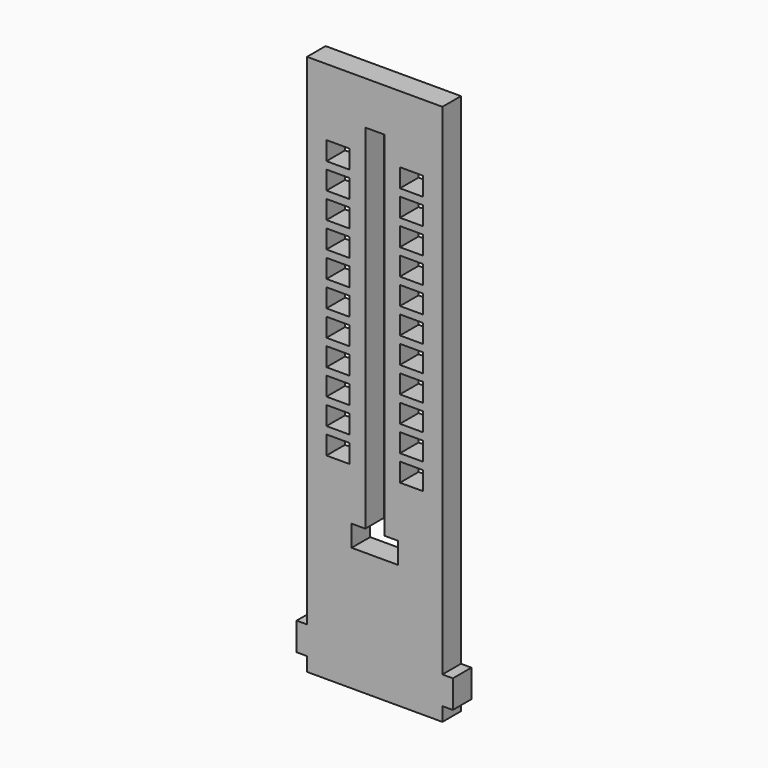
from build123d import *

# Parameters (mm, degrees)
F0_W     = 350
F0_H     = 1250
F0_W_2   = 60
F0_H_2   = 48
F0_W_3   = 60.0317394733
F0_W_4   = 27
F0_H_3   = 72
F1_DEPTH = 60


with BuildPart() as f1:
    # F0 (on Front) → F1 (new body)
    with BuildSketch(Plane.XZ):
        with Locations((-0.2704625484, 126.1477753774)):
            Rectangle(F0_W, F0_H)
        with Locations((-95, -116)):
            Rectangle(F0_W_2, F0_H_2, mode=Mode.SUBTRACT)
        with Locations((-95, -49)):
            Rectangle(F0_W_2, F0_H_2, mode=Mode.SUBTRACT)
        with Locations((-95.0158697367, 18)):
            Rectangle(F0_W_3, F0_H_2, mode=Mode.SUBTRACT)
        with Locations((95, -116)):
            Rectangle(F0_W_2, F0_H_2, mode=Mode.SUBTRACT)
        with Locations((95, -49)):
            Rectangle(F0_W_2, F0_H_2, mode=Mode.SUBTRACT)
        with Locations((95.0158697367, 18)):
            Rectangle(F0_W_3, F0_H_2, mode=Mode.SUBTRACT)
        with Locations((-95.0158697367, 85)):
            Rectangle(F0_W_3, F0_H_2, mode=Mode.SUBTRACT)
        with Locations((-95.0158697367, 152)):
            Rectangle(F0_W_3, F0_H_2, mode=Mode.SUBTRACT)
        with Locations((-95.0158697367, 219)):
            Rectangle(F0_W_3, F0_H_2, mode=Mode.SUBTRACT)
        with Locations((-95.0158697367, 286)):
            Rectangle(F0_W_3, F0_H_2, mode=Mode.SUBTRACT)
        with Locations((-95.0158697367, 353)):
            Rectangle(F0_W_3, F0_H_2, mode=Mode.SUBTRACT)
        with Locations((-95, 420)):
            Rectangle(F0_W_2, F0_H_2, mode=Mode.SUBTRACT)
        with Locations((-95, 487)):
            Rectangle(F0_W_2, F0_H_2, mode=Mode.SUBTRACT)
        with Locations((-95, 554)):
            Rectangle(F0_W_2, F0_H_2, mode=Mode.SUBTRACT)
        Polygon((-0.2704625484, 669.4326684133), (12.5, 669.4326684133), (24.7295374516, 669.4326684133), (24.7295374516, 658.1978485242), (12.5, 658.1978485242), (-0.2704625484, 658.1978485242), (-25.2704625484, 658.1978485242), (-25.2704625484, 669.4326684133), align=None, mode=Mode.SUBTRACT)
        Polygon((-24.7295374516, -193.3112977796), (-24.7295374516, 639.1477753774), (25, 639.1477753774), (25, -210.8522246226), (25, -273.8522246226), (60, -273.8522246226), (60, -328.8522246226), (25, -328.8522246226), (0, -328.8522246226), (-25, -328.8522246226), (-60, -328.8522246226), (-60, -273.8522246226), (-24.7295374516, -273.8522246226), align=None, mode=Mode.SUBTRACT)
        with Locations((95.0158697367, 85)):
            Rectangle(F0_W_3, F0_H_2, mode=Mode.SUBTRACT)
        with Locations((95.0158697367, 152)):
            Rectangle(F0_W_3, F0_H_2, mode=Mode.SUBTRACT)
        with Locations((95.0158697367, 219)):
            Rectangle(F0_W_3, F0_H_2, mode=Mode.SUBTRACT)
        with Locations((95.0158697367, 286)):
            Rectangle(F0_W_3, F0_H_2, mode=Mode.SUBTRACT)
        with Locations((95.0158697367, 353)):
            Rectangle(F0_W_3, F0_H_2, mode=Mode.SUBTRACT)
        with Locations((95, 420)):
            Rectangle(F0_W_2, F0_H_2, mode=Mode.SUBTRACT)
        with Locations((95, 487)):
            Rectangle(F0_W_2, F0_H_2, mode=Mode.SUBTRACT)
        with Locations((95, 554)):
            Rectangle(F0_W_2, F0_H_2, mode=Mode.SUBTRACT)
        Polygon((174.7295374516, -540.8522246226), (174.7295374516, -498.8522246226), (-175.2704625484, -498.8522246226), (-175.2704625484, -540.8522246226), (-175.2704625484, -612.8522246226), (-175.2704625484, -648.8522246226), (174.7295374516, -648.8522246226), (174.7295374516, -612.8522246226), align=None)
        with Locations((188.2295374516, -576.8522246226)):
            Rectangle(F0_W_4, F0_H_3)
        with Locations((-188.7704625484, -576.8522246226)):
            Rectangle(F0_W_4, F0_H_3)
        Polygon((24.7295374516, 669.4326684133), (12.5, 669.4326684133), (-0.2704625484, 669.4326684133), (-25.2704625484, 669.4326684133), (-25.2704625484, 658.1978485242), (-0.2704625484, 658.1978485242), (12.5, 658.1978485242), (24.7295374516, 658.1978485242), align=None)
    extrude(amount=F1_DEPTH)


solid = f1.part
